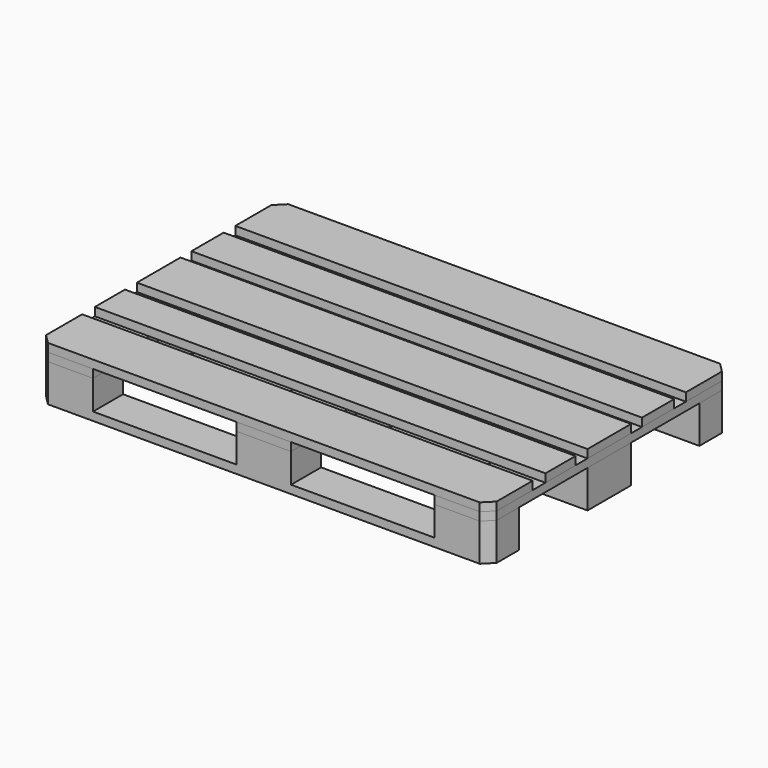
from build123d import *

# Parameters (mm, degrees)
F0_W       = 1200
F0_H       = 100
F0_H_2     = 72.5
F1_DEPTH   = 22
F2_W       = 145
F2_H       = 100
F2_W_2     = 72.5
F3_DEPTH   = 78
F4_W       = 145
F4_H       = 145
F5_DEPTH   = 78
F6_W       = 145
F6_H       = 100
F7_DEPTH   = 78
F8_W       = 145
F8_H       = 800
F9_DEPTH   = 22
F10_W      = 145
F10_H      = 800
F11_DEPTH  = 22
F12_W      = 145
F12_H      = 800
F13_DEPTH  = 22
F14_W      = 1200
F14_H      = 145
F15_DEPTH  = 22
F16_W      = 1200
F16_H      = 145
F17_DEPTH  = 22
F18_W      = 1200
F18_H      = 145
F19_DEPTH  = 22
F20_W      = 1200
F20_H      = 107.16276
F21_DEPTH  = 22
F22_W      = 1200
F22_H      = 100
F23_DEPTH  = 22
F24_SIZE   = 25
F24_2_SIZE = 25
F24_3_SIZE = 25
F24_4_SIZE = 25
F24_5_SIZE = 25


with BuildPart() as f1:
    # F0 (on Top) → F1 (new body)
    with BuildSketch(Plane.XY):
        with Locations((0, 350)):
            Rectangle(F0_W, F0_H)
        with Locations((0, 36.25)):
            Rectangle(F0_W, F0_H_2)
        with Locations((0, -36.25)):
            Rectangle(F0_W, F0_H_2)
        with Locations((0, -350)):
            Rectangle(F0_W, F0_H)
    extrude(amount=F1_DEPTH)

    # F2 (on face) → F3 (join)
    with BuildSketch(Plane.XY.offset(22)):
        with Locations((-527.5, 350)):
            Rectangle(F2_W, F2_H)
        with Locations((-36.25, 350)):
            Rectangle(F2_W_2, F2_H)
        with Locations((36.25, 350)):
            Rectangle(F2_W_2, F2_H)
        with Locations((527.5, 350)):
            Rectangle(F2_W, F2_H)
    extrude(amount=F3_DEPTH)

    # F4 (on face) → F5 (join)
    with BuildSketch(Plane.XY.offset(22)):
        with Locations((-527.5, 0)):
            Rectangle(F4_W, F4_H)
        Rectangle(F4_W, F4_H)
        with Locations((527.5, 0)):
            Rectangle(F4_W, F4_H)
    extrude(amount=F5_DEPTH)

    # F6 (on face) → F7 (join)
    with BuildSketch(Plane.XY.offset(22)):
        with Locations((-527.5, -350)):
            Rectangle(F6_W, F6_H)
        with Locations((0, -350)):
            Rectangle(F6_W, F6_H)
        with Locations((527.5, -350)):
            Rectangle(F6_W, F6_H)
    extrude(amount=F7_DEPTH)

    # F24#3
    f24_3_edges = [f1.edges().sort_by_distance(p)[0] for p in [
        (-600, -400, 50),
        (600, -400, 50),
        (600, 400, 50),
        (-600, 400, 50),
    ]]
    chamfer(f24_3_edges, length=F24_3_SIZE)


with BuildPart() as f9:
    # F8 (on face) → F9 (new body)
    with BuildSketch(Plane.XY.offset(100)):
        with Locations((-527.5, 0)):
            Rectangle(F8_W, F8_H)
    extrude(amount=F9_DEPTH)

    # F24#2
    f24_2_edges = [f9.edges().sort_by_distance(p)[0] for p in [
        (-600, -400, 111),
        (-600, 400, 111),
    ]]
    chamfer(f24_2_edges, length=F24_2_SIZE)


with BuildPart() as f11:
    # F10 (on face) → F11 (new body)
    with BuildSketch(Plane.XY.offset(100)):
        Rectangle(F10_W, F10_H)
    extrude(amount=F11_DEPTH)


with BuildPart() as f13:
    # F12 (on face) → F13 (new body)
    with BuildSketch(Plane.XY.offset(100)):
        with Locations((527.5, 0)):
            Rectangle(F12_W, F12_H)
    extrude(amount=F13_DEPTH)

    # F24#4
    f24_4_edges = [f13.edges().sort_by_distance(p)[0] for p in [
        (600, -400, 111),
        (600, 400, 111),
    ]]
    chamfer(f24_4_edges, length=F24_4_SIZE)


with BuildPart() as f15:
    # F14 (on face) → F15 (new body)
    with BuildSketch(Plane.XY.offset(122)):
        with Locations((0, 327.5)):
            Rectangle(F14_W, F14_H)
    extrude(amount=F15_DEPTH)

    # F24#5
    f24_5_edges = [f15.edges().sort_by_distance(p)[0] for p in [
        (600, 400, 133),
        (-600, 400, 133),
    ]]
    chamfer(f24_5_edges, length=F24_5_SIZE)


with BuildPart() as f17:
    # F16 (on face) → F17 (new body)
    with BuildSketch(Plane.XY.offset(122)):
        Rectangle(F16_W, F16_H)
    extrude(amount=F17_DEPTH)


with BuildPart() as f19:
    # F18 (on face) → F19 (new body)
    with BuildSketch(Plane.XY.offset(122)):
        with Locations((0, -327.5)):
            Rectangle(F18_W, F18_H)
    extrude(amount=F19_DEPTH)

    # F24
    f24_edges = [f19.edges().sort_by_distance(p)[0] for p in [
        (-600, -400, 133),
        (600, -400, 133),
    ]]
    chamfer(f24_edges, length=F24_SIZE)


with BuildPart() as f21:
    # F20 (on face) → F21 (new body)
    with BuildSketch(Plane.XY.offset(122)):
        with Locations((0, 162.5)):
            Rectangle(F20_W, F20_H)
    extrude(amount=F21_DEPTH)


with BuildPart() as f23:
    # F22 (on face) → F23 (new body)
    with BuildSketch(Plane.XY.offset(122)):
        with Locations((0, -162.5)):
            Rectangle(F22_W, F22_H)
    extrude(amount=F23_DEPTH)


solid = Compound([f1.part, f9.part, f11.part, f13.part, f15.part, f17.part, f19.part, f21.part, f23.part])
